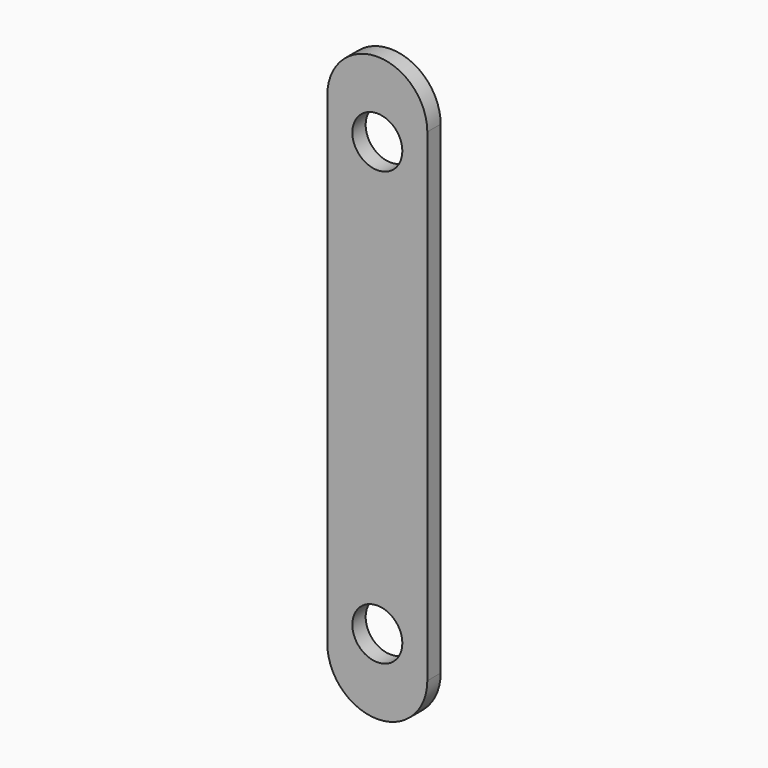
from build123d import *

# Parameters (mm, degrees)
F1_DEPTH = 5
F2_R     = 7.5
F3_DEPTH = 25


with BuildPart() as f1:
    # F0 (on Front) → F1 (new body)
    with BuildSketch(Plane.XZ):
        with BuildLine():
            Line((15, -72.5), (15, 72.5))
            ThreePointArc((15, 72.5), (0, 87.5), (-15, 72.5))
            Line((-15, 72.5), (-15, -72.5))
            ThreePointArc((-15, -72.5), (0, -87.5), (15, -72.5))
        make_face()
    extrude(amount=F1_DEPTH)

    # F2 (on face) → F3 (cut)
    with BuildSketch(Plane.XZ.offset(5)):
        with Locations((0, 65)):
            Circle(F2_R)
        with Locations((0, -65)):
            Circle(F2_R)
    extrude(amount=-F3_DEPTH, mode=Mode.SUBTRACT)


solid = f1.part
